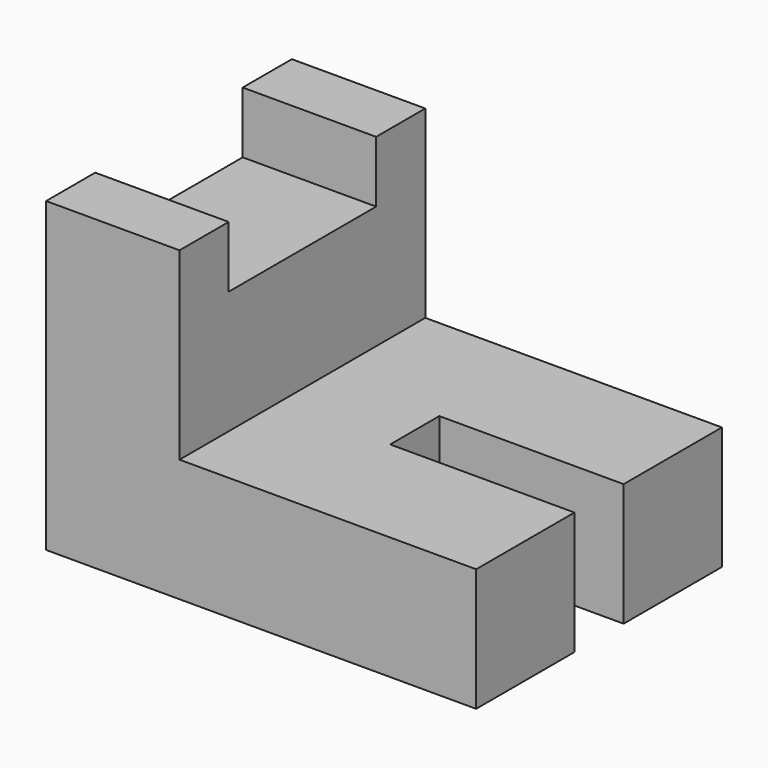
from build123d import *

# Parameters (mm, degrees)
F1_DEPTH = 63.5
F2_W     = 38.1
F2_H     = 12.7
F3_DEPTH = 27.583812
F4_W     = 38.1
F4_H     = 12.7
F5_DEPTH = 25.401


with BuildPart() as f1:
    # F0 (on Front) → F1 (new body)
    with BuildSketch(Plane.XZ):
        Polygon((-30.102565, 39.520449), (-57.685377, 39.520449), (-57.685377, -23.979551), (31.214621, -23.979551), (31.214621, 1.420449), (-30.102565, 1.420449), align=None)
    extrude(amount=F1_DEPTH)

    # F2 (on face) → F3 (cut, through all)
    with BuildSketch(Plane.YZ.offset(-30.102565)):
        with Locations((-31.75, 33.170449)):
            Rectangle(F2_W, F2_H)
    extrude(amount=-F3_DEPTH, mode=Mode.SUBTRACT)

    # F4 (on face) → F5 (cut, through all)
    with BuildSketch(Plane.XY.offset(1.420449)):
        with Locations((12.164621, -31.75)):
            Rectangle(F4_W, F4_H)
    extrude(amount=-F5_DEPTH, mode=Mode.SUBTRACT)


solid = f1.part
